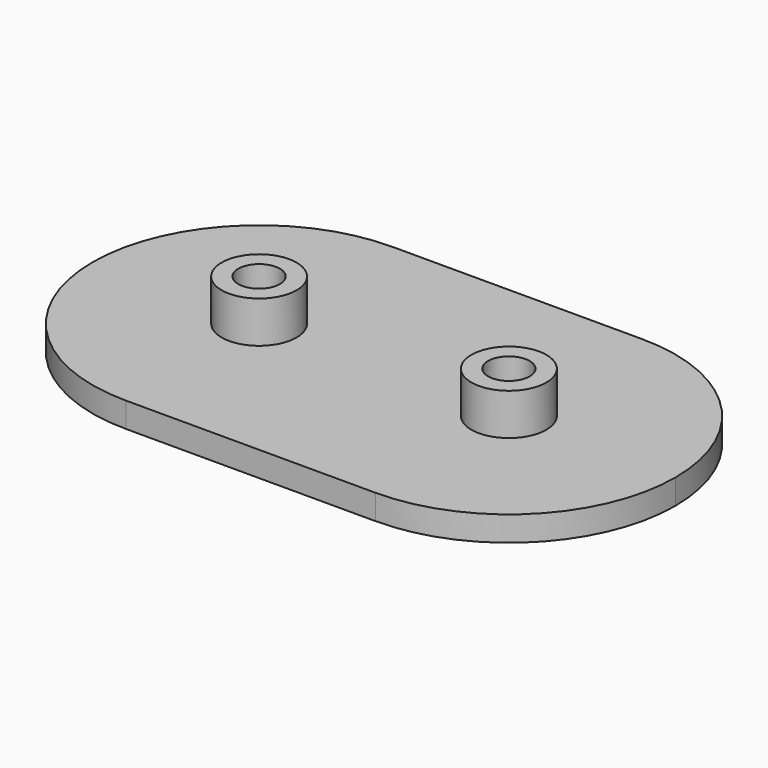
from build123d import *

# Parameters (mm, degrees)
F1_DEPTH = 3
F2_R     = 4.5
F2_R_2   = 2.5
F3_DEPTH = 5


with BuildPart() as f1:
    # F0 (on Top) → F1 (new body)
    with BuildSketch(Plane.XY):
        with BuildLine():
            Line((-15, -20), (15, -20))
            ThreePointArc((15, -20), (29.142136, -14.142136), (35, 0))
            ThreePointArc((35, 0), (29.142136, 14.142136), (15, 20))
            Line((15, 20), (-15, 20))
            ThreePointArc((-15, 20), (-29.142136, 14.142136), (-35, 0))
            ThreePointArc((-35, 0), (-29.142136, -14.142136), (-15, -20))
        make_face()
    extrude(amount=F1_DEPTH)

    # F2 (on face) → F3 (join)
    with BuildSketch(Plane.XY.offset(3)):
        with Locations((-15, 0)):
            Circle(F2_R)
        with Locations((-15, 0)):
            Circle(F2_R_2, mode=Mode.SUBTRACT)
        with Locations((15, 0)):
            Circle(F2_R)
        with Locations((15, 0)):
            Circle(F2_R_2, mode=Mode.SUBTRACT)
    extrude(amount=F3_DEPTH)


solid = f1.part
